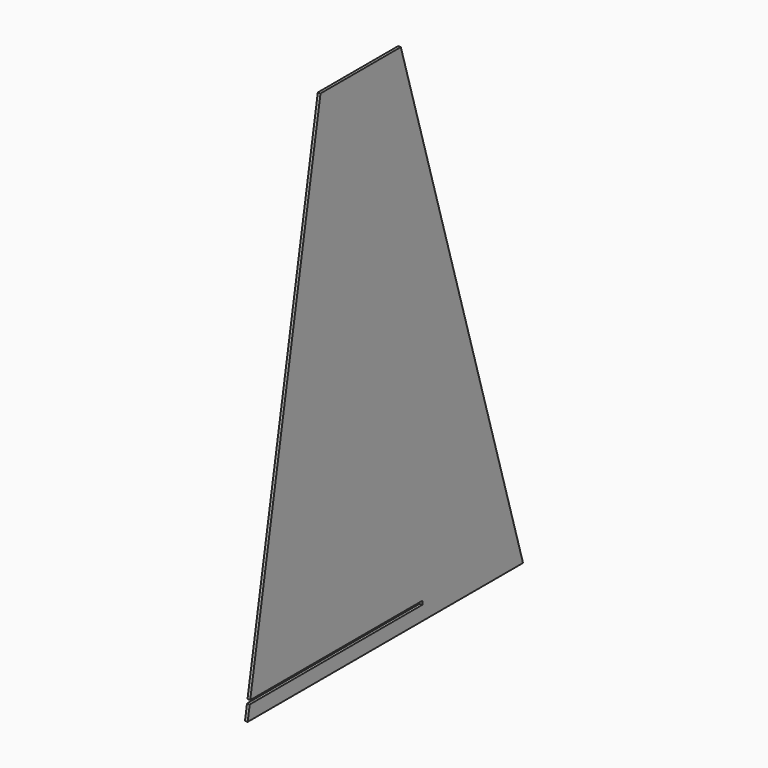
from build123d import *

# Parameters (mm, degrees)
F1_DEPTH = 4.7752
F3_DEPTH = 25.4


with BuildPart() as f1:
    # F0 (on Right) → F1 (new body)
    with BuildSketch(Plane.YZ):
        Polygon((63.634284, 609.234932), (-114.165716, 609.234932), (-275.399107, -305.165068), (334.200893, -305.165068), align=None)
    extrude(amount=F1_DEPTH)

    # F2 (on face) → F3 (cut)
    with BuildSketch(Plane.YZ.offset(4.7752)):
        Polygon((111.199275, -273.415068), (-269.800725, -273.415068), (-327.721238, -273.415068), (-327.721238, -279.765068), (111.199275, -279.765068), align=None)
    extrude(amount=-F3_DEPTH, mode=Mode.SUBTRACT)


solid = f1.part
